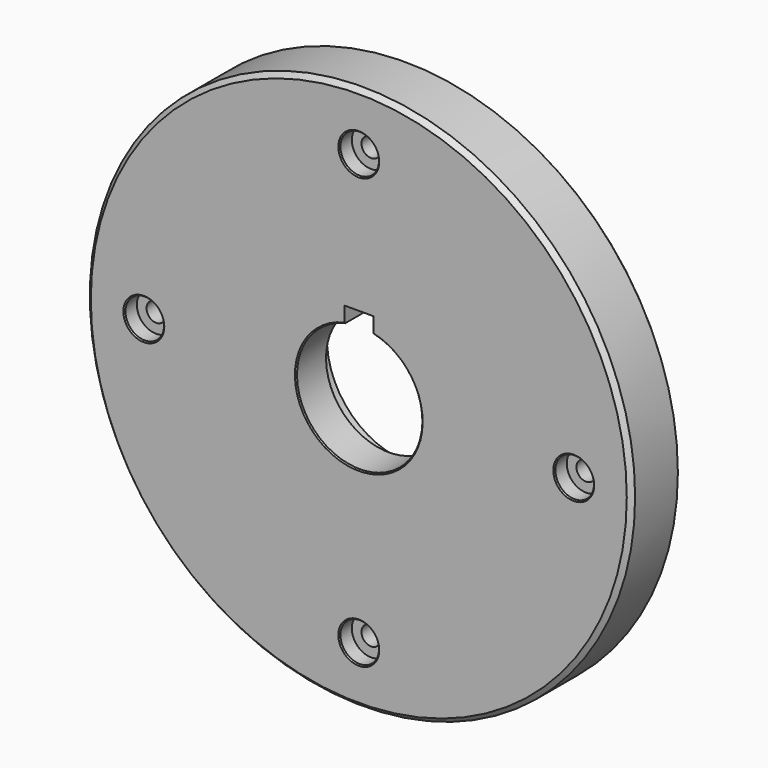
from build123d import *

# Parameters (mm, degrees)
F0_R     = 89.73439
F0_R_2   = 3.175
F0_R_3   = 26.9875
F1_DEPTH = 20.6375
F2_DEPTH = 7.9375
F3_R     = 6.35
F3_R_2   = 3.175
F4_DEPTH = 5.08
F5_SIZE  = 1.524
F6_SIZE  = 0.381


with BuildPart() as f1:
    # F0 (on Front) → F1 (new body)
    with BuildSketch(Plane.XZ):
        Circle(F0_R)
        with Locations((0, -70.74916)):
            Circle(F0_R_2, mode=Mode.SUBTRACT)
        with Locations((-70.74916, 0)):
            Circle(F0_R_2, mode=Mode.SUBTRACT)
        Circle(F0_R_3, mode=Mode.SUBTRACT)
        with Locations((70.74916, 0)):
            Circle(F0_R_2, mode=Mode.SUBTRACT)
        with Locations((0, 70.74916)):
            Circle(F0_R_2, mode=Mode.SUBTRACT)
        Circle(F0_R_3)
        with BuildLine():
            ThreePointArc((4.7625, 20.080463), (0, -20.6375), (-4.7625, 20.080463))
            Line((-4.7625, 20.080463), (-4.7625, 25.4))
            Line((-4.7625, 25.4), (4.7625, 25.4))
            Line((4.7625, 25.4), (4.7625, 20.080463))
        make_face(mode=Mode.SUBTRACT)
    extrude(amount=F1_DEPTH)

    # F0 (on Front) → F2 (cut)
    with BuildSketch(Plane.XZ):
        Circle(F0_R_3)
        with BuildLine():
            ThreePointArc((4.7625, 20.080463), (0, -20.6375), (-4.7625, 20.080463))
            Line((-4.7625, 20.080463), (-4.7625, 25.4))
            Line((-4.7625, 25.4), (4.7625, 25.4))
            Line((4.7625, 25.4), (4.7625, 20.080463))
        make_face(mode=Mode.SUBTRACT)
    extrude(amount=F2_DEPTH, mode=Mode.SUBTRACT)

    # F3 (on face) → F4 (cut)
    with BuildSketch(Plane.XZ.offset(20.6375)):
        with Locations((0, 70.74916)):
            Circle(F3_R)
        with Locations((0, 70.74916)):
            Circle(F3_R_2, mode=Mode.SUBTRACT)
        with Locations((-70.74916, 0)):
            Circle(F3_R)
        with Locations((-70.74916, 0)):
            Circle(F3_R_2, mode=Mode.SUBTRACT)
        with Locations((0, -70.74916)):
            Circle(F3_R)
        with Locations((0, -70.74916)):
            Circle(F3_R_2, mode=Mode.SUBTRACT)
        with Locations((70.74916, 0)):
            Circle(F3_R)
        with Locations((70.74916, 0)):
            Circle(F3_R_2, mode=Mode.SUBTRACT)
    extrude(amount=-F4_DEPTH, mode=Mode.SUBTRACT)

    # F5
    f5_edges = [f1.edges().sort_by_distance(p)[0] for p in [
        (89.73439, -10.31875, 0),
        (-89.73439, 0, 0),
        (-89.73439, -20.6375, 0),
    ]]
    chamfer(f5_edges, length=F5_SIZE)

    # F6
    f6_edges = [f1.edges().sort_by_distance(p)[0] for p in [
        (0, -20.6375, -20.6375),
        (-77.09916, -20.6375, 0),
        (-6.35, -20.6375, 70.74916),
        (64.39916, -20.6375, 0),
        (-6.35, -20.6375, -70.74916),
        (0, -7.9375, -20.6375),
    ]]
    chamfer(f6_edges, length=F6_SIZE)


solid = f1.part
